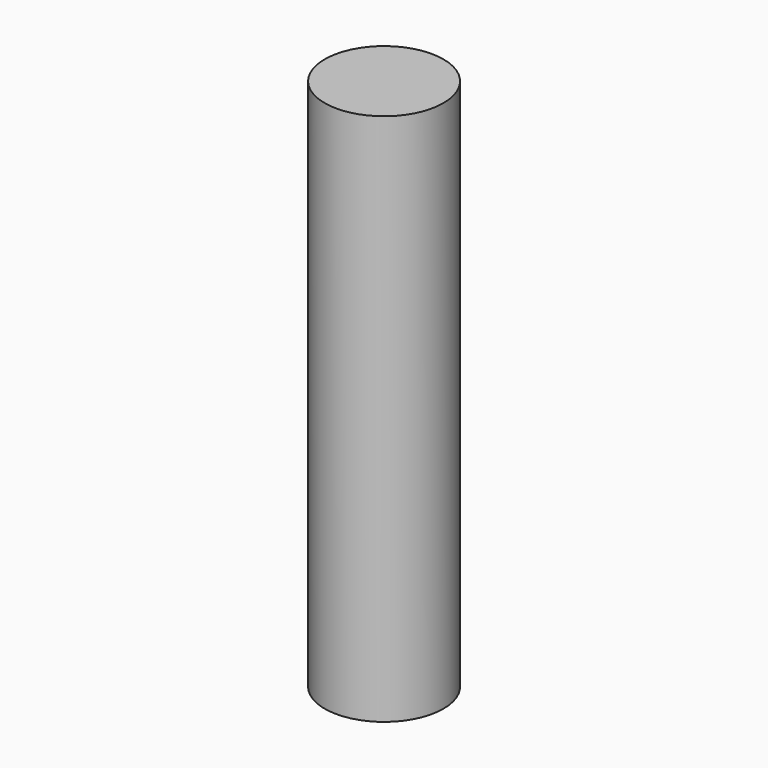
from build123d import *

# Parameters (mm, degrees)
CYLINDER_R     = 1.67005
CYLINDER_DEPTH = 15


with BuildPart() as part:
    # Cylinder → Cylinder (new body)
    with BuildSketch(Plane.XY.offset(-2.5)):
        Circle(CYLINDER_R)
    extrude(amount=CYLINDER_DEPTH)


solid = part.part
